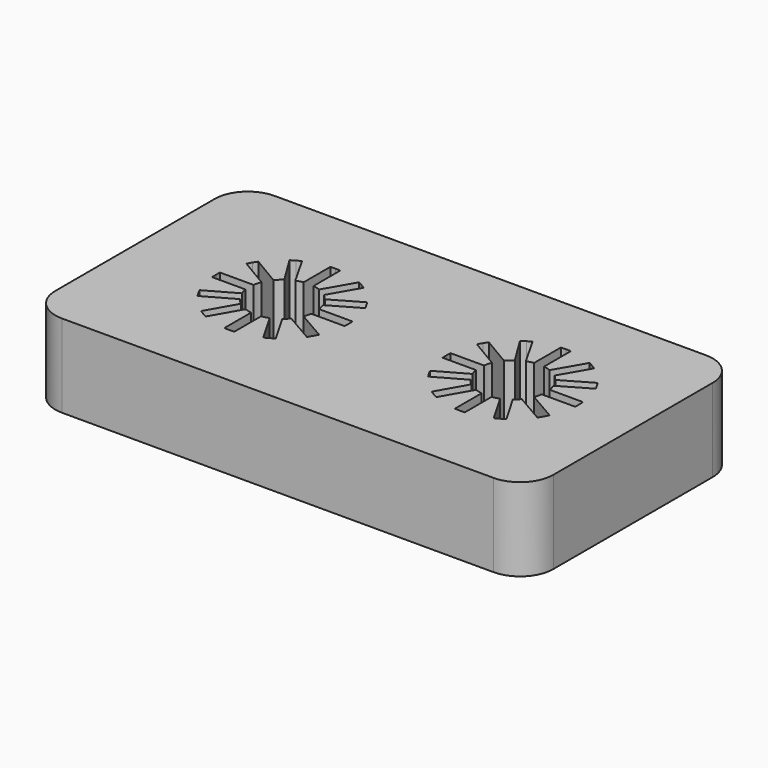
from build123d import *

# Parameters (mm, degrees)
F1_DEPTH = 25


with BuildPart() as f1:
    # F0 (on Top) → F1 (new body)
    with BuildSketch(Plane.XY):
        with BuildLine():
            Line((-44.3664826453, 30), (-44.3664826453, 0))
            Line((-44.3664826453, 0), (-44.3664826453, -30))
            ThreePointArc((-44.3664826453, -30), (-41.4375504571, -37.0710678119), (-34.3664826453, -40))
            Line((-34.3664826453, -40), (95.6335173547, -40))
            ThreePointArc((95.6335173547, -40), (102.7045851666, -37.0710678119), (105.6335173547, -30))
            Line((105.6335173547, -30), (105.6335173547, 30))
            ThreePointArc((105.6335173547, 30), (102.7045851666, 37.0710678119), (95.6335173547, 40))
            Line((95.6335173547, 40), (-34.3664826453, 40))
            ThreePointArc((-34.3664826453, 40), (-41.4375504571, 37.0710678119), (-44.3664826453, 30))
        make_face()
        with BuildLine():
            ThreePointArc((-17.2011217286, 10.2039899685), (-16.8063733111, 10.8418548288), (-16.3879826165, 11.4644679668))
            Line((-16.3879826165, 11.4644679668), (-7.7386307522, 6.3335293543))
            ThreePointArc((-7.7386307522, 6.3335293543), (-6.8634313714, 7.2727786856), (-5.8751114363, 8.0921607505))
            Line((-5.8751114363, 8.0921607505), (-11.1341671305, 16.6141602951))
            ThreePointArc((-11.1341671305, 16.6141602951), (-10.503304654, 17.0200056212), (-9.8576667089, 17.4019081441))
            ThreePointArc((-9.8576667089, 17.4019081441), (-9.1981615432, 17.7593306244), (-8.5257169121, 18.0917702598))
            Line((-8.5257169121, 18.0917702598), (-3.5689222756, 9.341455657))
            ThreePointArc((-3.5689222756, 9.341455657), (-2.5485740405, 9.6697864692), (-1.4989449415, 9.8870199789))
            Line((-1.4989449415, 9.8870199789), (-1.4989449415, 19.94375))
            ThreePointArc((-1.4989449415, 19.94375), (-0.75, 19.9859325527), (0, 20))
            ThreePointArc((0, 20), (0.75, 19.9859325527), (1.4989449415, 19.94375))
            Line((1.4989449415, 19.94375), (1.4989449415, 9.8870199789))
            ThreePointArc((1.4989449415, 9.8870199789), (2.588190451, 9.6592582629), (3.6453855913, 9.3118829401))
            Line((3.6453855913, 9.3118829401), (8.6737506018, 18.0212666175))
            ThreePointArc((8.6737506018, 18.0212666175), (9.3434472235, 17.6833253089), (10, 17.3205080757))
            ThreePointArc((10, 17.3205080757), (10.6424853292, 16.9333253089), (11.2699993982, 16.522321676))
            Line((11.2699993982, 16.522321676), (6.2416343876, 7.8129379987))
            ThreePointArc((6.2416343876, 7.8129379987), (7.0710678119, 7.0710678119), (7.8129379987, 6.2416343876))
            Line((7.8129379987, 6.2416343876), (16.522321676, 11.2699993982))
            ThreePointArc((16.522321676, 11.2699993982), (16.9333253089, 10.6424853292), (17.3205080757, 10))
            ThreePointArc((17.3205080757, 10), (17.6833253089, 9.3434472235), (18.0212666175, 8.6737506018))
            Line((18.0212666175, 8.6737506018), (9.3118829401, 3.6453855913))
            ThreePointArc((9.3118829401, 3.6453855913), (9.6592582629, 2.588190451), (9.8870199789, 1.4989449415))
            Line((9.8870199789, 1.4989449415), (19.94375, 1.4989449415))
            ThreePointArc((19.94375, 1.4989449415), (19.9859325527, 0.75), (20, 0))
            ThreePointArc((20, 0), (19.9859325527, -0.75), (19.94375, -1.4989449415))
            Line((19.94375, -1.4989449415), (9.8870199789, -1.4989449415))
            ThreePointArc((9.8870199789, -1.4989449415), (9.6592582629, -2.588190451), (9.3118829401, -3.6453855913))
            Line((9.3118829401, -3.6453855913), (18.0212666175, -8.6737506018))
            ThreePointArc((18.0212666175, -8.6737506018), (17.6833253089, -9.3434472235), (17.3205080757, -10))
            Line((17.3205080757, -10), (16.522321676, -11.3824993982))
            Line((16.522321676, -11.3824993982), (16.4670589045, -11.3505934222))
            Line((16.4670589045, -11.3505934222), (7.7510062765, -6.3183780911))
            ThreePointArc((7.7510062765, -6.3183780911), (7.0361157976, -7.1058479073), (6.2416343876, -7.8129379987))
            Line((6.2416343876, -7.8129379987), (11.2699993982, -16.522321676))
            ThreePointArc((11.2699993982, -16.522321676), (10.6424853292, -16.9333253089), (10, -17.3205080757))
            ThreePointArc((10, -17.3205080757), (9.3434472235, -17.6833253089), (8.6737506018, -18.0212666175))
            Line((8.6737506018, -18.0212666175), (3.6453855913, -9.3118829401))
            ThreePointArc((3.6453855913, -9.3118829401), (2.588190451, -9.6592582629), (1.4989449415, -9.8870199789))
            Line((1.4989449415, -9.8870199789), (1.4989449415, -19.94375))
            ThreePointArc((1.4989449415, -19.94375), (0.75, -19.9859325527), (0, -20))
            ThreePointArc((0, -20), (-0.75, -19.9859325527), (-1.4989449415, -19.94375))
            Line((-1.4989449415, -19.94375), (-1.4989449415, -9.8870199789))
            ThreePointArc((-1.4989449415, -9.8870199789), (-2.5593257291, -9.6669463541), (-3.5896897256, -9.3334949335))
            Line((-3.5896897256, -9.3334949335), (-8.5659336261, -18.0727635162))
            ThreePointArc((-8.5659336261, -18.0727635162), (-9.237637217, -17.7388291228), (-9.8963458103, -17.3799407249))
            ThreePointArc((-9.8963458103, -17.3799407249), (-10.5411327714, -16.996603187), (-11.1710910494, -16.5893557671))
            Line((-11.1710910494, -16.5893557671), (-6.1948471489, -7.8500871844))
            ThreePointArc((-6.1948471489, -7.8500871844), (-7.0809164405, -7.0612054468), (-7.8673251482, -6.1729405482))
            Line((-7.8673251482, -6.1729405482), (-16.6204313192, -11.1248039426))
            ThreePointArc((-16.6204313192, -11.1248039426), (-17.025921115, -10.4937128885), (-17.4074597859, -9.847859859))
            ThreePointArc((-17.4074597859, -9.847859859), (-17.7645106044, -9.1881534046), (-18.0965712912, -8.5155215637))
            Line((-18.0965712912, -8.5155215637), (-9.3434651202, -3.5636581693))
            ThreePointArc((-9.3434651202, -3.5636581693), (-9.6705040957, -2.5458496686), (-9.8870199789, -1.4989449415))
            Line((-9.8870199789, -1.4989449415), (-19.94375, -1.4989449415))
            ThreePointArc((-19.94375, -1.4989449415), (-19.9859325527, -0.75), (-20, 0))
            ThreePointArc((-20, 0), (-19.9859325527, 0.75), (-19.94375, 1.4989449415))
            Line((-19.94375, 1.4989449415), (-9.8870199789, 1.4989449415))
            ThreePointArc((-9.8870199789, 1.4989449415), (-9.6437961572, 2.645221291), (-9.2681526668, 3.755175914))
            Line((-9.2681526668, 3.755175914), (-17.917504531, 8.8861145266))
            ThreePointArc((-17.917504531, 8.8861145266), (-17.5716725587, 9.5517706991), (-17.2011217286, 10.2039899685))
        make_face(mode=Mode.SUBTRACT)
        with BuildLine():
            ThreePointArc((50.7934512707, 12.0102323271), (51.1881996883, 12.6480971873), (51.6065903829, 13.2707103254))
            Line((51.6065903829, 13.2707103254), (60.2559422472, 8.1397717128))
            ThreePointArc((60.2559422472, 8.1397717128), (61.1311416279, 9.0790210442), (62.1194615631, 9.898403109))
            Line((62.1194615631, 9.898403109), (56.8604058688, 18.4204026536))
            ThreePointArc((56.8604058688, 18.4204026536), (57.4912683454, 18.8262479798), (58.1369062904, 19.2081505027))
            ThreePointArc((58.1369062904, 19.2081505027), (58.7964114562, 19.565572983), (59.4688560873, 19.8980126184))
            Line((59.4688560873, 19.8980126184), (64.4256507238, 11.1476980155))
            ThreePointArc((64.4256507238, 11.1476980155), (65.4459989589, 11.4760288278), (66.4956280579, 11.6932623374))
            Line((66.4956280579, 11.6932623374), (66.4956280579, 21.7499923586))
            ThreePointArc((66.4956280579, 21.7499923586), (67.2445729993, 21.7921749113), (67.9945729993, 21.8062423586))
            ThreePointArc((67.9945729993, 21.8062423586), (68.7445729993, 21.7921749113), (69.4935179408, 21.7499923586))
            Line((69.4935179408, 21.7499923586), (69.4935179408, 11.6932623374))
            ThreePointArc((69.4935179408, 11.6932623374), (70.5827634504, 11.4655006215), (71.6399585906, 11.1181252987))
            Line((71.6399585906, 11.1181252987), (76.6683236012, 19.827508976))
            ThreePointArc((76.6683236012, 19.827508976), (77.3380202228, 19.4895676675), (77.9945729993, 19.1267504343))
            ThreePointArc((77.9945729993, 19.1267504343), (78.6370583285, 18.7395676675), (79.2645723975, 18.3285640346))
            Line((79.2645723975, 18.3285640346), (74.236207387, 9.6191803573))
            ThreePointArc((74.236207387, 9.6191803573), (75.0656408112, 8.8773101704), (75.807510998, 8.0478767462))
            Line((75.807510998, 8.0478767462), (84.5168946753, 13.0762417567))
            ThreePointArc((84.5168946753, 13.0762417567), (84.9278983083, 12.4487276878), (85.315081075, 11.8062423586))
            ThreePointArc((85.315081075, 11.8062423586), (85.6778983083, 11.1496895821), (86.0158396168, 10.4799929604))
            Line((86.0158396168, 10.4799929604), (77.3064559395, 5.4516279498))
            ThreePointArc((77.3064559395, 5.4516279498), (77.6538312622, 4.3944328096), (77.8815929782, 3.3051873))
            Line((77.8815929782, 3.3051873), (87.9383229993, 3.3051873))
            ThreePointArc((87.9383229993, 3.3051873), (87.980505552, 2.5562423586), (87.9945729993, 1.8062423586))
            ThreePointArc((87.9945729993, 1.8062423586), (87.980505552, 1.0562423586), (87.9383229993, 0.3072974171))
            Line((87.9383229993, 0.3072974171), (77.8815929782, 0.3072974171))
            ThreePointArc((77.8815929782, 0.3072974171), (77.6538312622, -0.7819480924), (77.3064559395, -1.8391432327))
            Line((77.3064559395, -1.8391432327), (86.0158396168, -6.8675082433))
            ThreePointArc((86.0158396168, -6.8675082433), (85.6778983083, -7.5372048649), (85.315081075, -8.1937576414))
            Line((85.315081075, -8.1937576414), (84.5168946753, -9.5762570396))
            Line((84.5168946753, -9.5762570396), (84.4616319039, -9.5443510636))
            Line((84.4616319039, -9.5443510636), (75.7455792758, -4.5121357325))
            ThreePointArc((75.7455792758, -4.5121357325), (75.030688797, -5.2996055488), (74.236207387, -6.0066956401))
            Line((74.236207387, -6.0066956401), (79.2645723975, -14.7160793174))
            ThreePointArc((79.2645723975, -14.7160793174), (78.6370583285, -15.1270829504), (77.9945729993, -15.5142657171))
            ThreePointArc((77.9945729993, -15.5142657171), (77.3380202228, -15.8770829504), (76.6683236012, -16.2150242589))
            Line((76.6683236012, -16.2150242589), (71.6399585906, -7.5056405816))
            ThreePointArc((71.6399585906, -7.5056405816), (70.5827634504, -7.8530159043), (69.4935179408, -8.0807776203))
            Line((69.4935179408, -8.0807776203), (69.4935179408, -18.1375076414))
            ThreePointArc((69.4935179408, -18.1375076414), (68.7445729993, -18.1796901941), (67.9945729993, -18.1937576414))
            ThreePointArc((67.9945729993, -18.1937576414), (67.2445729993, -18.1796901941), (66.4956280579, -18.1375076414))
            Line((66.4956280579, -18.1375076414), (66.4956280579, -8.0807776203))
            ThreePointArc((66.4956280579, -8.0807776203), (65.4352472702, -7.8607039955), (64.4048832737, -7.5272525749))
            Line((64.4048832737, -7.5272525749), (59.4286393732, -16.2665211576))
            ThreePointArc((59.4286393732, -16.2665211576), (58.7569357824, -15.9325867642), (58.098227189, -15.5736983664))
            ThreePointArc((58.098227189, -15.5736983664), (57.453440228, -15.1903608284), (56.82348195, -14.7831134085))
            Line((56.82348195, -14.7831134085), (61.7997258505, -6.0438448258))
            ThreePointArc((61.7997258505, -6.0438448258), (60.9136565588, -5.2549630882), (60.1272478511, -4.3666981897))
            Line((60.1272478511, -4.3666981897), (51.3741416801, -9.3185615841))
            ThreePointArc((51.3741416801, -9.3185615841), (50.9686518844, -8.6874705299), (50.5871132135, -8.0416175004))
            ThreePointArc((50.5871132135, -8.0416175004), (50.2300623949, -7.381911046), (49.8980017081, -6.7092792051))
            Line((49.8980017081, -6.7092792051), (58.6511078791, -1.7574158107))
            ThreePointArc((58.6511078791, -1.7574158107), (58.3240689037, -0.7396073101), (58.1075530205, 0.3072974171))
            Line((58.1075530205, 0.3072974171), (48.0508229993, 0.3072974171))
            ThreePointArc((48.0508229993, 0.3072974171), (48.0086404467, 1.0562423586), (47.9945729993, 1.8062423586))
            ThreePointArc((47.9945729993, 1.8062423586), (48.0086404467, 2.5562423586), (48.0508229993, 3.3051873))
            Line((48.0508229993, 3.3051873), (58.1075530205, 3.3051873))
            ThreePointArc((58.1075530205, 3.3051873), (58.3507768422, 4.4514636496), (58.7264203326, 5.5614182726))
            Line((58.7264203326, 5.5614182726), (50.0770684683, 10.6923568852))
            ThreePointArc((50.0770684683, 10.6923568852), (50.4229004406, 11.3580130577), (50.7934512707, 12.0102323271))
        make_face(mode=Mode.SUBTRACT)
    extrude(amount=F1_DEPTH)


solid = f1.part
